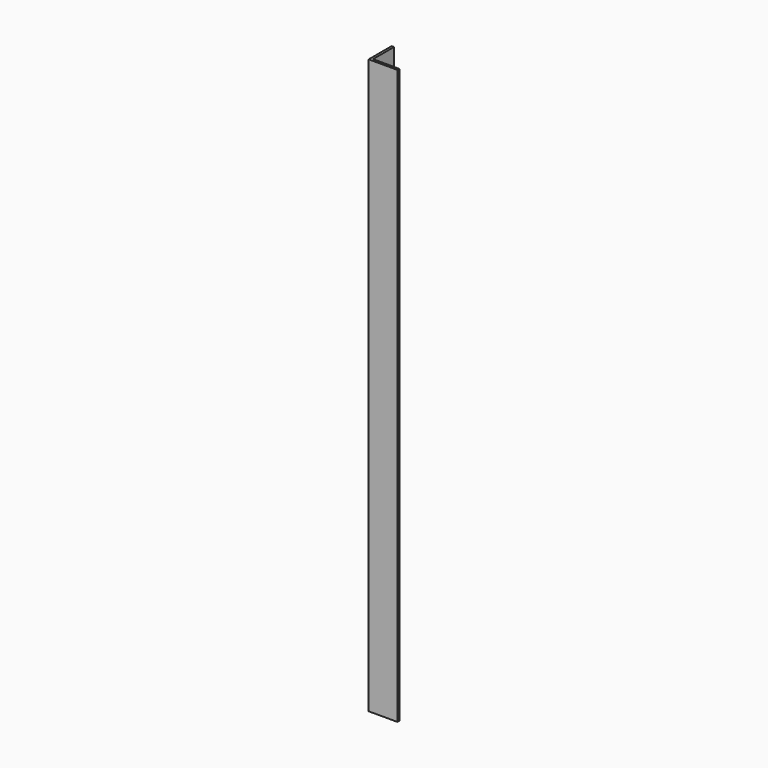
from build123d import *

# Parameters (mm, degrees)
PAD_DEPTH = 762


with BuildPart() as part:
    # Sketch → Pad (new body)
    with BuildSketch(Plane.XY):
        Polygon((0, 0), (38.1, 0), (38.1, 3.175), (3.175, 3.175), (3.175, 38.1), (0, 38.1), align=None)
    extrude(amount=PAD_DEPTH)


solid = part.part
